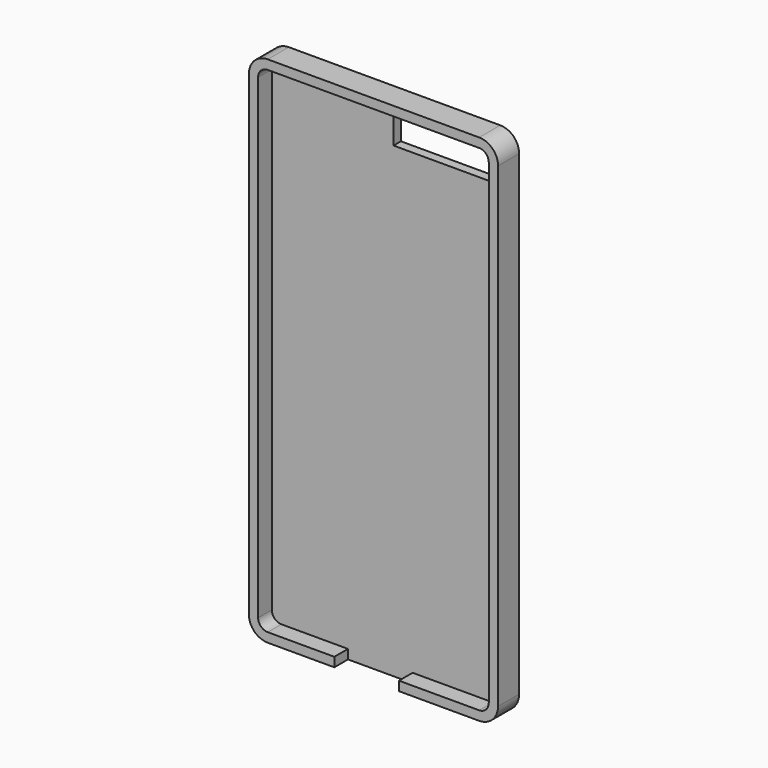
from build123d import *

# Parameters (mm, degrees)
F0_W     = 67.1
F0_H     = 138.3
F1_DEPTH = 3.55
F2_R     = 5.08
F3_T     = -2.5
F4_W     = 27.54098
F4_H     = 7.459015
F5_DEPTH = 12.5
F6_W     = 17.408122
F6_H     = 4.6
F7_DEPTH = 25


with BuildPart() as f1:
    # F0 (on Front) → F1 (new body, symmetric)
    with BuildSketch(Plane.XZ):
        Rectangle(F0_W, F0_H)
    extrude(amount=F1_DEPTH, both=True)

    # F2
    f2_edges = [f1.edges().sort_by_distance(p)[0] for p in [
        (-33.55, 0, 69.15),
        (-33.55, 0, -69.15),
        (33.55, 0, -69.15),
        (33.55, 0, 69.15),
    ]]
    fillet(f2_edges, radius=F2_R)

    # F3
    f3_openings = [f1.faces().sort_by_distance(p)[0] for p in [
        (0, -3.55, 0),
    ]]
    offset(amount=F3_T, openings=f3_openings)

    # F4 (on Front) → F5 (cut, symmetric)
    with BuildSketch(Plane.XZ):
        with Locations((15.491805, 60.389347)):
            Rectangle(F4_W, F4_H)
    extrude(amount=F5_DEPTH, both=True, mode=Mode.SUBTRACT)

    # F6 (on face) → F7 (cut)
    with BuildSketch(Plane.XY.offset(-66.65)):
        with Locations((-1.833738, -1.25)):
            Rectangle(F6_W, F6_H)
    extrude(amount=-F7_DEPTH, mode=Mode.SUBTRACT)


solid = f1.part
